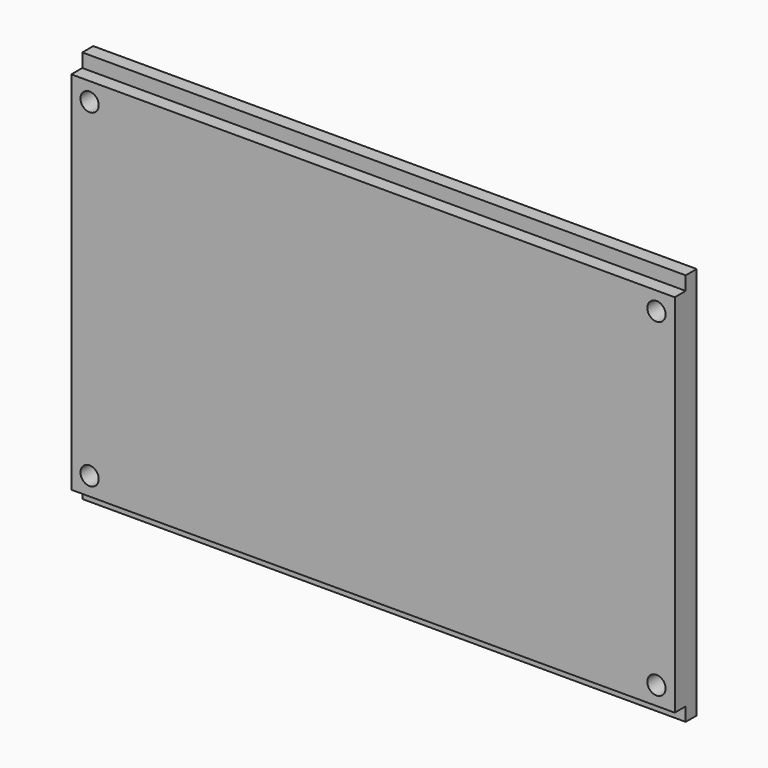
from build123d import *

# Parameters (mm, degrees)
F0_W     = 104.775
F0_H     = 68.2625
F1_DEPTH = 4.7625
F2_W     = 2.38125
F2_H     = 2.38125
F3_DEPTH = 104.775
F4_R     = 1.5875
F5_DEPTH = 4.7625


with BuildPart() as f1:
    # F0 (on Front) → F1 (new body)
    with BuildSketch(Plane.XZ):
        Rectangle(F0_W, F0_H)
    extrude(amount=F1_DEPTH)

    # F2 (on face) → F3 (cut, through all)
    with BuildSketch(Plane.YZ.offset(52.3875)):
        with Locations((-3.571875, 32.940625)):
            Rectangle(F2_W, F2_H)
        with Locations((-3.571875, -32.940625)):
            Rectangle(F2_W, F2_H)
    extrude(amount=-F3_DEPTH, mode=Mode.SUBTRACT)

    # F4 (on face) → F5 (cut, through all)
    with BuildSketch(Plane.XZ.offset(4.7625)):
        with Locations((-49.2125, 28.575)):
            Circle(F4_R)
        with Locations((49.2125, 28.575)):
            Circle(F4_R)
        with Locations((-49.2125, -28.575)):
            Circle(F4_R)
        with Locations((49.2125, -28.575)):
            Circle(F4_R)
    extrude(amount=-F5_DEPTH, mode=Mode.SUBTRACT)


solid = f1.part
